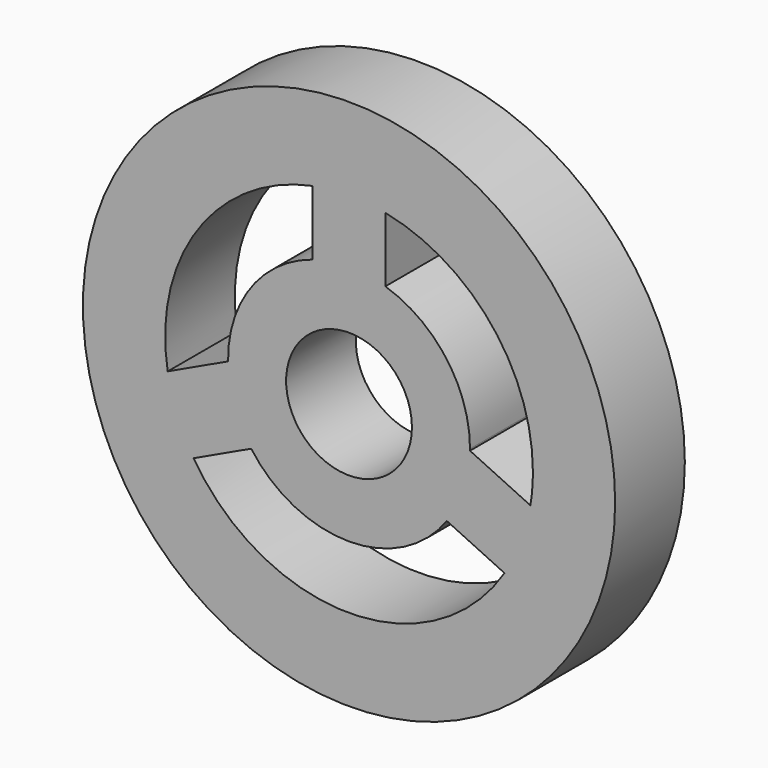
from build123d import *

# Parameters (mm, degrees)
F0_R     = 5.5
F0_R_2   = 1.3
F1_DEPTH = 1.8


with BuildPart() as f1:
    # F0 (on Front) → F1 (new body)
    with BuildSketch(Plane.XZ):
        Circle(F0_R)
        with BuildLine():
            ThreePointArc((-0.75, 3.725252), (0, 3.8), (0.75, 3.725252))
            ThreePointArc((0.75, 3.725252), (2.940238, 2.407281), (3.8, 0))
            ThreePointArc((3.8, 0), (3.787062, -0.313306), (3.748337, -0.624478))
            ThreePointArc((3.748337, -0.624478), (3.550562, -1.354072), (3.212284, -2.030082))
            ThreePointArc((3.212284, -2.030082), (0, -3.8), (-3.212284, -2.030082))
            ThreePointArc((-3.212284, -2.030082), (-3.550562, -1.354072), (-3.748337, -0.624478))
            ThreePointArc((-3.748337, -0.624478), (-3.128705, 2.156665), (-0.75, 3.725252))
        make_face(mode=Mode.SUBTRACT)
        with BuildLine():
            Line((3.748337, -0.624478), (2.499741, -0.036019))
            ThreePointArc((2.499741, -0.036019), (2.372029, -0.789606), (2.022598, -1.469387))
            Line((2.022598, -1.469387), (3.212284, -2.030082))
            ThreePointArc((3.212284, -2.030082), (3.550562, -1.354072), (3.748337, -0.624478))
        make_face()
        with BuildLine():
            ThreePointArc((-0.75, 2.384848), (0, 2.5), (0.75, 2.384848))
            Line((0.75, 2.384848), (0.75, 3.725252))
            ThreePointArc((0.75, 3.725252), (0, 3.8), (-0.75, 3.725252))
            Line((-0.75, 3.725252), (-0.75, 2.384848))
        make_face()
        with BuildLine():
            ThreePointArc((-2.022598, -1.469387), (-2.372029, -0.789606), (-2.499741, -0.036019))
            Line((-2.499741, -0.036019), (-3.748337, -0.624478))
            ThreePointArc((-3.748337, -0.624478), (-3.550562, -1.354072), (-3.212284, -2.030082))
            Line((-3.212284, -2.030082), (-2.022598, -1.469387))
        make_face()
        with BuildLine():
            ThreePointArc((2.499741, -0.036019), (2.499935, -0.01801), (2.5, 0))
            ThreePointArc((2.5, 0), (2.015564, 1.47902), (0.75, 2.384848))
            ThreePointArc((0.75, 2.384848), (0, 2.5), (-0.75, 2.384848))
            ThreePointArc((-0.75, 2.384848), (-2.026167, 1.464462), (-2.499741, -0.036019))
            ThreePointArc((-2.499741, -0.036019), (-2.372029, -0.789606), (-2.022598, -1.469387))
            ThreePointArc((-2.022598, -1.469387), (0, -2.5), (2.022598, -1.469387))
            ThreePointArc((2.022598, -1.469387), (2.372029, -0.789606), (2.499741, -0.036019))
        make_face()
        Circle(F0_R_2, mode=Mode.SUBTRACT)
    extrude(amount=F1_DEPTH)


solid = f1.part
